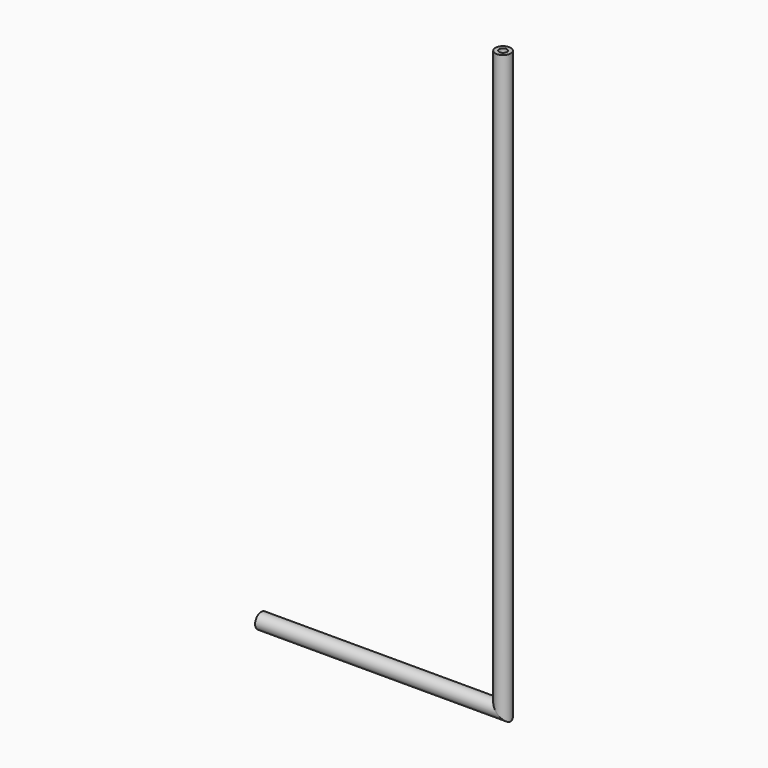
from build123d import *

# Parameters (mm, degrees)
F0_R = 1.5875
F1_R = 0.79375


with BuildPart() as f3:
    # F3: sweep along a path in F2
    with BuildLine(Plane.XZ) as f3_path:
        Line((0, 0), (50, 0))
        Line((50, 0), (50, 120))
    # F0 (on Right) → F3 (sweep)
    with BuildSketch(Plane.YZ):
        Circle(F0_R)
    sweep(path=f3_path.line, transition=Transition.RIGHT)

    # F4: sweep along a path in F2
    with BuildLine(Plane.XZ) as f4_path:
        Line((0, 0), (50, 0))
        Line((50, 0), (50, 120))
    # F1 (on Right) → F4 (sweep, cut)
    with BuildSketch(Plane.YZ):
        Circle(F1_R)
    sweep(path=f4_path.line, transition=Transition.RIGHT, mode=Mode.SUBTRACT)


solid = f3.part
